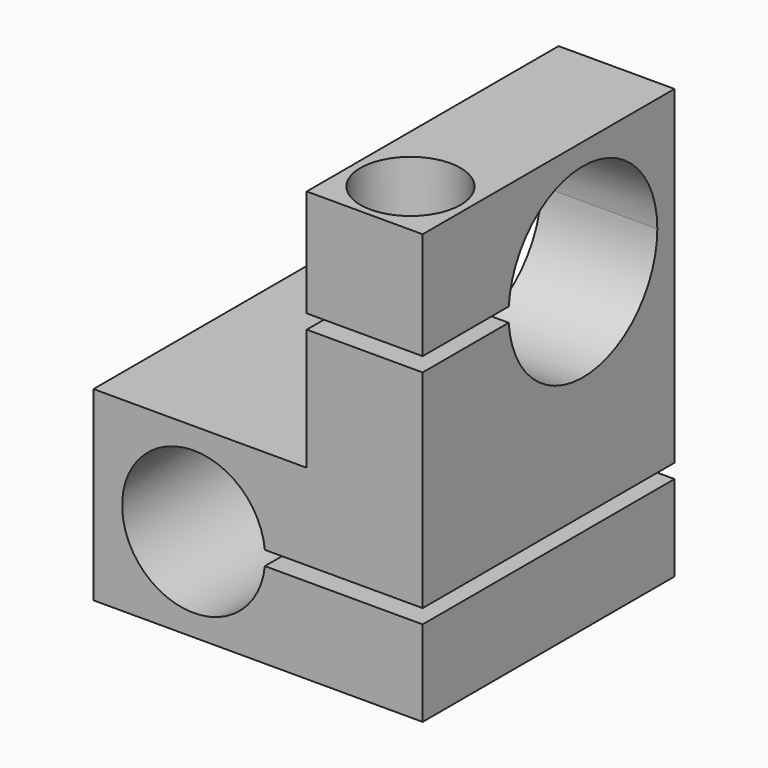
from build123d import *

# Parameters (mm, degrees)
F0_W            = 23
F0_H            = 22
F1_DEPTH        = 13
F2_W            = 8.1
F2_H            = 22
F3_DEPTH        = 17
F5_DEPTH        = 30
F7_DEPTH        = 25
F9_DEPTH        = 45
F10_DEPTH       = 40
F12_D           = 3.3
F12_DEPTH       = 14.5
F12_CBORE_D     = 7
F12_CBORE_DEPTH = 4
F12_TIP         = 0.9914200214
F13_DEPTH       = 3.05
F15_D           = 3.3
F15_DEPTH       = 14.5
F15_CBORE_D     = 7
F15_CBORE_DEPTH = 4
F15_TIP         = 0.9914200214
F16_DEPTH       = 3.05


with BuildPart() as f1:
    # F0 (on Top) → F1 (new body)
    with BuildSketch(Plane.XY):
        Rectangle(F0_W, F0_H)
    extrude(amount=F1_DEPTH)

    # F2 (on face) → F3 (join)
    with BuildSketch(Plane.XY.offset(13)):
        with Locations((7.45, 0)):
            Rectangle(F2_W, F2_H)
    extrude(amount=F3_DEPTH)

    # F4 (on face) → F5 (cut)
    with BuildSketch(Plane.XZ.offset(11)):
        with BuildLine():
            ThreePointArc((-9.5, 6.5), (-4.5, 1.5), (0.5, 6.5))
            ThreePointArc((0.5, 6.5), (-4.5, 11.5), (-9.5, 6.5))
        make_face()
    extrude(amount=-F5_DEPTH, mode=Mode.SUBTRACT)

    # F6 (on face) → F7 (cut)
    with BuildSketch(Plane.YZ.offset(11.5)):
        with BuildLine():
            ThreePointArc((-3.4807406984, 21.5), (3.2501853916, 15.50481661), (9.5, 22))
            Line((9.5, 22), (3, 22))
            Line((3, 22), (3, 21.5))
            Line((3, 21.5), (-3.4807406984, 21.5))
        make_face()
        with BuildLine():
            Line((3, 22), (9.5, 22))
            ThreePointArc((9.5, 22), (3.2501853916, 28.49518339), (-3.4807406984, 22.5))
            Line((-3.4807406984, 22.5), (3, 22.5))
            Line((3, 22.5), (3, 22))
        make_face()
        with BuildLine():
            Line((3, 21.5), (3, 22))
            Line((3, 22), (-3.5, 22))
            ThreePointArc((-3.5, 22), (-3.49518339, 21.7498146084), (-3.4807406984, 21.5))
            Line((-3.4807406984, 21.5), (3, 21.5))
        make_face()
        with BuildLine():
            Line((-3.5, 22), (3, 22))
            Line((3, 22), (3, 22.5))
            Line((3, 22.5), (-3.4807406984, 22.5))
            ThreePointArc((-3.4807406984, 22.5), (-3.49518339, 22.2501853916), (-3.5, 22))
        make_face()
        with BuildLine():
            ThreePointArc((-3.5, 22), (-3.49518339, 22.2501853916), (-3.4807406984, 22.5))
            Line((-3.4807406984, 22.5), (-15.5890611932, 22.5))
            Line((-15.5890611932, 22.5), (-15.5890611932, 22))
            Line((-15.5890611932, 22), (-3.5, 22))
        make_face()
        with BuildLine():
            Line((-15.5890611932, 21.5), (-3.4807406984, 21.5))
            ThreePointArc((-3.4807406984, 21.5), (-3.49518339, 21.7498146084), (-3.5, 22))
            Line((-3.5, 22), (-15.5890611932, 22))
            Line((-15.5890611932, 22), (-15.5890611932, 21.5))
        make_face()
    extrude(amount=-F7_DEPTH, mode=Mode.SUBTRACT)

    # F8 (on face) → F9 (cut)
    with BuildSketch(Plane.XZ.offset(11)):
        Polygon((27.05, 7), (-4.05, 7), (-4.05, 6.5), (-4.05, 6), (27.05, 6), align=None)
    extrude(amount=-F9_DEPTH, mode=Mode.SUBTRACT)

    # F6 (on face) → F10 (cut)
    with BuildSketch(Plane.YZ.offset(11.5)):
        with BuildLine():
            ThreePointArc((-3.4807406984, 21.5), (3.2501853916, 15.50481661), (9.5, 22))
            Line((9.5, 22), (3, 22))
            Line((3, 22), (3, 21.5))
            Line((3, 21.5), (-3.4807406984, 21.5))
        make_face()
        with BuildLine():
            Line((3, 22), (9.5, 22))
            ThreePointArc((9.5, 22), (3.2501853916, 28.49518339), (-3.4807406984, 22.5))
            Line((-3.4807406984, 22.5), (3, 22.5))
            Line((3, 22.5), (3, 22))
        make_face()
        with BuildLine():
            Line((3, 21.5), (3, 22))
            Line((3, 22), (-3.5, 22))
            ThreePointArc((-3.5, 22), (-3.49518339, 21.7498146084), (-3.4807406984, 21.5))
            Line((-3.4807406984, 21.5), (3, 21.5))
        make_face()
        with BuildLine():
            Line((-3.5, 22), (3, 22))
            Line((3, 22), (3, 22.5))
            Line((3, 22.5), (-3.4807406984, 22.5))
            ThreePointArc((-3.4807406984, 22.5), (-3.49518339, 22.2501853916), (-3.5, 22))
        make_face()
        with BuildLine():
            ThreePointArc((-3.5, 22), (-3.49518339, 22.2501853916), (-3.4807406984, 22.5))
            Line((-3.4807406984, 22.5), (-15.5890611932, 22.5))
            Line((-15.5890611932, 22.5), (-15.5890611932, 22))
            Line((-15.5890611932, 22), (-3.5, 22))
        make_face()
        with BuildLine():
            Line((-15.5890611932, 21.5), (-3.4807406984, 21.5))
            ThreePointArc((-3.4807406984, 21.5), (-3.49518339, 21.7498146084), (-3.5, 22))
            Line((-3.5, 22), (-15.5890611932, 22))
            Line((-15.5890611932, 22), (-15.5890611932, 21.5))
        make_face()
    extrude(amount=-F10_DEPTH, mode=Mode.SUBTRACT)

    # F12
    with Locations(Plane.XY.offset(30)):
        with Locations((7.45, -7)):
            CounterBoreHole(F12_D / 2, F12_CBORE_D / 2, F12_CBORE_DEPTH, depth=F12_DEPTH)
            with Locations((0, 0, -(F12_DEPTH + F12_TIP / 2))):  # 118° drill point
                Cone(0, F12_D / 2, F12_TIP, mode=Mode.SUBTRACT)

    # F11 (on face) → F13 (cut)
    with BuildSketch(Plane.XY.offset(30)):
        with BuildLine():
            ThreePointArc((7.45, -10.445), (9.8859828612, -9.4359828612), (10.895, -7))
            ThreePointArc((10.895, -7), (5.0140171388, -4.5640171388), (7.45, -10.445))
        make_face()
    extrude(amount=-F13_DEPTH, mode=Mode.SUBTRACT)

    # F15
    with Locations(Plane(origin=(0, 0, 0), x_dir=(1, 0, 0), z_dir=(0, 0, -1))):
        with Locations((7.5, 7), (7.5, -7)):
            CounterBoreHole(F15_D / 2, F15_CBORE_D / 2, F15_CBORE_DEPTH, depth=F15_DEPTH)
            with Locations((0, 0, -(F15_DEPTH + F15_TIP / 2))):  # 118° drill point
                Cone(0, F15_D / 2, F15_TIP, mode=Mode.SUBTRACT)

    # F14 (on face) → F16 (cut)
    with BuildSketch(Plane(origin=(0, 0, 0), x_dir=(1, 0, 0), z_dir=(0, 0, -1))):
        with BuildLine():
            ThreePointArc((7.5, 10.445), (5.0640171388, 4.5640171388), (10.945, 7))
            Line((10.945, 7), (7.5, 7))
            Line((7.5, 7), (7.5, 10.445))
        make_face()
        with BuildLine():
            Line((7.5, 7), (10.945, 7))
            ThreePointArc((10.945, 7), (9.9359828612, 9.4359828612), (7.5, 10.445))
            Line((7.5, 10.445), (7.5, 7))
        make_face()
        with BuildLine():
            ThreePointArc((10.945, -7), (5.0640171388, -4.5640171388), (7.5, -10.445))
            Line((7.5, -10.445), (7.5, -7))
            Line((7.5, -7), (10.945, -7))
        make_face()
        with BuildLine():
            Line((7.5, -7), (7.5, -10.445))
            ThreePointArc((7.5, -10.445), (9.9359828612, -9.4359828612), (10.945, -7))
            Line((10.945, -7), (7.5, -7))
        make_face()
    extrude(amount=-F16_DEPTH, mode=Mode.SUBTRACT)


solid = f1.part
